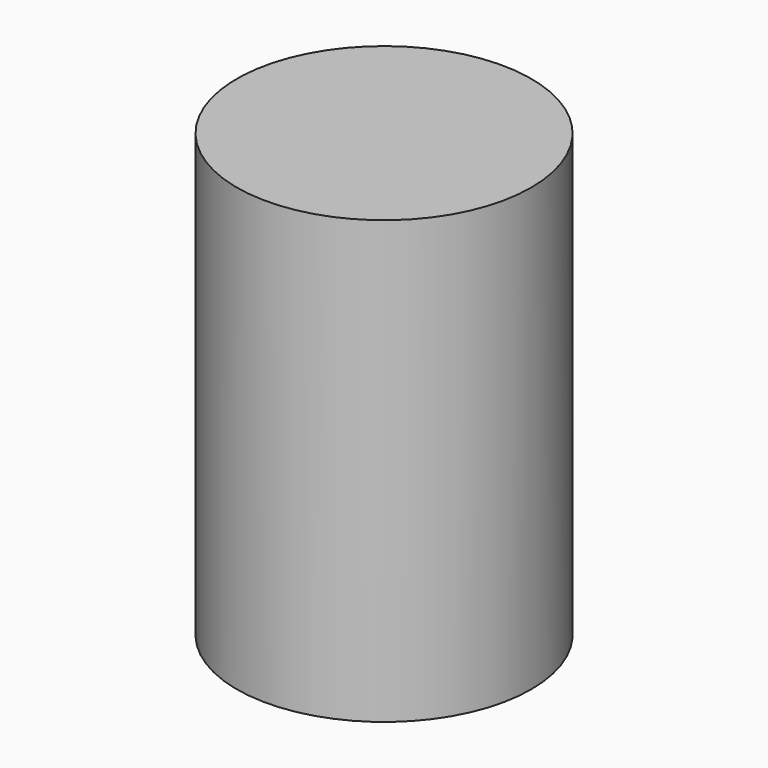
from build123d import *

# Parameters (mm, degrees)
F0_R     = 5
F1_DEPTH = 15
F2_R     = 1.75
F3_DEPTH = 13
F3_TAPER = 7


with BuildPart() as f1:
    # F0 (on Top) → F1 (new body)
    with BuildSketch(Plane.XY):
        Circle(F0_R)
    extrude(amount=F1_DEPTH)

    # F2 (on face) → F3 (cut)
    with BuildSketch(Plane(origin=(0, 0, 0), x_dir=(1, 0, 0), z_dir=(0, 0, -1))):
        Circle(F2_R)
    extrude(amount=-F3_DEPTH, taper=F3_TAPER, mode=Mode.SUBTRACT)


solid = f1.part
